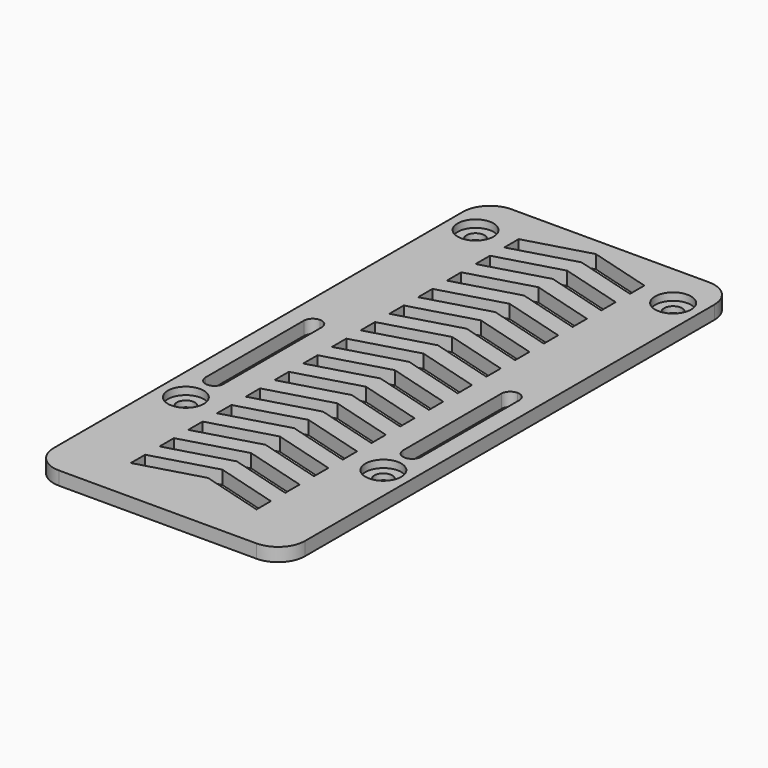
from build123d import *

# Parameters (mm, degrees)
F0_R     = 1.5
F1_DEPTH = 2.25
F2_R     = 3
F3_DEPTH = 1.25


with BuildPart() as f1:
    # F0 (on Top) → F1 (new body)
    with BuildSketch(Plane.XY):
        with BuildLine():
            ThreePointArc((-16.5, 39.75), (-19.681981, 38.431981), (-21, 35.25))
            Line((-21, 35.25), (-21, -44.25))
            Line((-21, -44.25), (-21, -50.25))
            ThreePointArc((-21, -50.25), (-19.681981, -53.431981), (-16.5, -54.75))
            Line((-16.5, -54.75), (16.5, -54.75))
            ThreePointArc((16.5, -54.75), (19.681981, -53.431981), (21, -50.25))
            Line((21, -50.25), (21, -44.25))
            Line((21, -44.25), (21, 35.25))
            ThreePointArc((21, 35.25), (19.681981, 38.431981), (16.5, 39.75))
            Line((16.5, 39.75), (-16.5, 39.75))
        make_face()
        with Locations((-16.5, -28.25)):
            Circle(F0_R, mode=Mode.SUBTRACT)
        with BuildLine():
            ThreePointArc((-16.5, -0.25), (-15.43934, -0.68934), (-15, -1.75))
            Line((-15, -1.75), (-15, -22.25))
            ThreePointArc((-15, -22.25), (-15.43934, -23.31066), (-16.5, -23.75))
            ThreePointArc((-16.5, -23.75), (-17.56066, -23.31066), (-18, -22.25))
            Line((-18, -22.25), (-18, -1.75))
            ThreePointArc((-18, -1.75), (-17.56066, -0.68934), (-16.5, -0.25))
        make_face(mode=Mode.SUBTRACT)
        Polygon((-10.5, -44.25), (0, -41.25), (10.5, -44.25), (10.5, -47.25), (0, -44.25), (-10.5, -47.25), align=None, mode=Mode.SUBTRACT)
        Polygon((-10.5, -38.25), (0, -35.25), (10.5, -38.25), (10.5, -41.25), (0, -38.25), (-10.5, -41.25), align=None, mode=Mode.SUBTRACT)
        Polygon((-10.5, -32.25), (0, -29.25), (10.5, -32.25), (10.5, -35.25), (0, -32.25), (-10.5, -35.25), align=None, mode=Mode.SUBTRACT)
        Polygon((-10.5, -26.25), (0, -23.25), (10.5, -26.25), (10.5, -29.25), (0, -26.25), (-10.5, -29.25), align=None, mode=Mode.SUBTRACT)
        Polygon((-10.5, -20.25), (0, -17.25), (10.5, -20.25), (10.5, -23.25), (0, -20.25), (-10.5, -23.25), align=None, mode=Mode.SUBTRACT)
        Polygon((-10.5, -14.25), (0, -11.25), (10.5, -14.25), (10.5, -17.25), (0, -14.25), (-10.5, -17.25), align=None, mode=Mode.SUBTRACT)
        Polygon((-10.5, -8.25), (0, -5.25), (10.5, -8.25), (10.5, -11.25), (0, -8.25), (-10.5, -11.25), align=None, mode=Mode.SUBTRACT)
        with Locations((16.5, -28.25)):
            Circle(F0_R, mode=Mode.SUBTRACT)
        with BuildLine():
            ThreePointArc((16.5, -0.25), (17.56066, -0.68934), (18, -1.75))
            Line((18, -1.75), (18, -22.25))
            ThreePointArc((18, -22.25), (17.56066, -23.31066), (16.5, -23.75))
            ThreePointArc((16.5, -23.75), (15.43934, -23.31066), (15, -22.25))
            Line((15, -22.25), (15, -1.75))
            ThreePointArc((15, -1.75), (15.43934, -0.68934), (16.5, -0.25))
        make_face(mode=Mode.SUBTRACT)
        with Locations((-16.5, 32.25)):
            Circle(F0_R, mode=Mode.SUBTRACT)
        Polygon((-10.5, -2.25), (0, 0.75), (10.5, -2.25), (10.5, -5.25), (0, -2.25), (-10.5, -5.25), align=None, mode=Mode.SUBTRACT)
        Polygon((-10.5, 3.75), (0, 6.75), (10.5, 3.75), (10.5, 0.75), (0, 3.75), (-10.5, 0.75), align=None, mode=Mode.SUBTRACT)
        Polygon((-10.5, 9.75), (0, 12.75), (10.5, 9.75), (10.5, 6.75), (0, 9.75), (-10.5, 6.75), align=None, mode=Mode.SUBTRACT)
        Polygon((-10.5, 15.75), (0, 18.75), (10.5, 15.75), (10.5, 12.75), (0, 15.75), (-10.5, 12.75), align=None, mode=Mode.SUBTRACT)
        Polygon((-10.5, 21.75), (0, 24.75), (10.5, 21.75), (10.5, 18.75), (0, 21.75), (-10.5, 18.75), align=None, mode=Mode.SUBTRACT)
        Polygon((-10.5, 27.75), (0, 30.75), (10.5, 27.75), (10.5, 24.75), (0, 27.75), (-10.5, 24.75), align=None, mode=Mode.SUBTRACT)
        Polygon((-10.5, 33.75), (0, 36.75), (10.5, 33.75), (10.5, 30.75), (0, 33.75), (-10.5, 30.75), align=None, mode=Mode.SUBTRACT)
        with Locations((16.5, 32.25)):
            Circle(F0_R, mode=Mode.SUBTRACT)
    extrude(amount=F1_DEPTH)

    # F2 (on face) → F3 (cut)
    with BuildSketch(Plane.XY.offset(2.25)):
        with Locations((-16.5, -28.25)):
            Circle(F2_R)
        with Locations((16.5, -28.25)):
            Circle(F2_R)
        with Locations((16.5, 32.25)):
            Circle(F2_R)
        with Locations((-16.5, 32.25)):
            Circle(F2_R)
    extrude(amount=-F3_DEPTH, mode=Mode.SUBTRACT)


solid = f1.part
